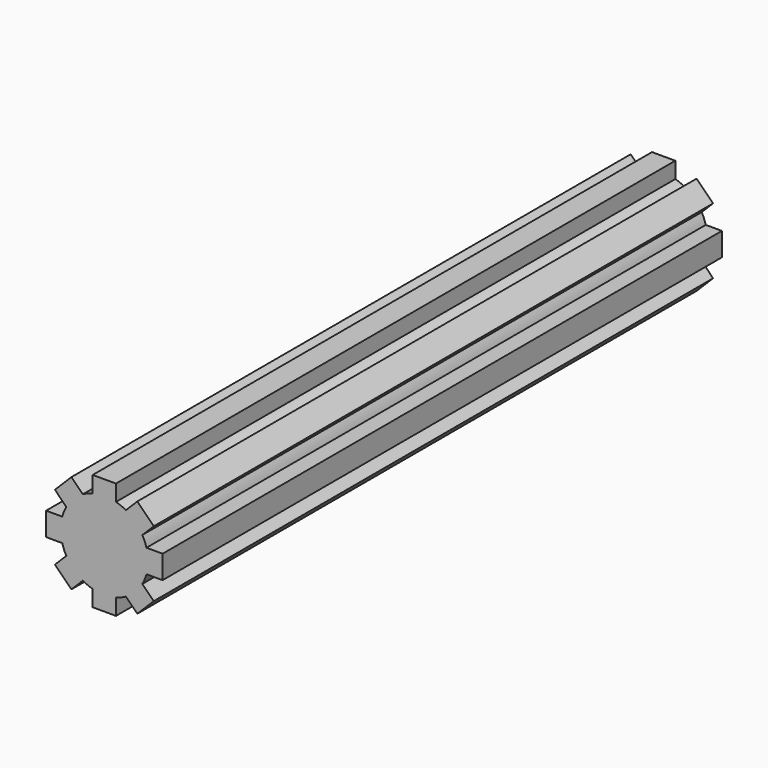
from build123d import *

# Parameters (mm, degrees)
F1_DEPTH = 152.4


with BuildPart() as f1:
    # F0 (on Front) → F1 (new body)
    with BuildSketch(Plane.XZ):
        with BuildLine():
            Line((2.54, 12.7), (-2.54, 12.7))
            Line((-2.54, 12.7), (-2.54, 9.180089))
            ThreePointArc((-2.54, 9.180089), (-3.64506, 8.799953), (-4.695252, 8.287354))
            Line((-4.695252, 8.287354), (-7.184205, 10.776307))
            Line((-7.184205, 10.776307), (-8.980256, 8.980256))
            Line((-8.980256, 8.980256), (-10.776307, 7.184205))
            Line((-10.776307, 7.184205), (-8.287354, 4.695252))
            ThreePointArc((-8.287354, 4.695252), (-8.799953, 3.64506), (-9.180089, 2.54))
            Line((-9.180089, 2.54), (-12.7, 2.54))
            Line((-12.7, 2.54), (-12.7, -2.54))
            Line((-12.7, -2.54), (-9.180089, -2.54))
            ThreePointArc((-9.180089, -2.54), (-8.799953, -3.64506), (-8.287354, -4.695252))
            Line((-8.287354, -4.695252), (-10.776307, -7.184205))
            Line((-10.776307, -7.184205), (-8.980256, -8.980256))
            Line((-8.980256, -8.980256), (-7.184205, -10.776307))
            Line((-7.184205, -10.776307), (-4.695252, -8.287354))
            ThreePointArc((-4.695252, -8.287354), (-3.64506, -8.799953), (-2.54, -9.180089))
            Line((-2.54, -9.180089), (-2.54, -12.7))
            Line((-2.54, -12.7), (2.54, -12.7))
            Line((2.54, -12.7), (2.54, -9.180089))
            ThreePointArc((2.54, -9.180089), (3.64506, -8.799953), (4.695252, -8.287354))
            Line((4.695252, -8.287354), (7.184205, -10.776307))
            Line((7.184205, -10.776307), (8.980256, -8.980256))
            Line((8.980256, -8.980256), (10.776307, -7.184205))
            Line((10.776307, -7.184205), (8.287354, -4.695252))
            ThreePointArc((8.287354, -4.695252), (8.799953, -3.64506), (9.180089, -2.54))
            Line((9.180089, -2.54), (12.7, -2.54))
            Line((12.7, -2.54), (12.7, 2.54))
            Line((12.7, 2.54), (9.180089, 2.54))
            ThreePointArc((9.180089, 2.54), (8.799953, 3.64506), (8.287354, 4.695252))
            Line((8.287354, 4.695252), (10.776307, 7.184205))
            Line((10.776307, 7.184205), (8.980256, 8.980256))
            Line((8.980256, 8.980256), (7.184205, 10.776307))
            Line((7.184205, 10.776307), (4.695252, 8.287354))
            ThreePointArc((4.695252, 8.287354), (3.64506, 8.799953), (2.54, 9.180089))
            Line((2.54, 9.180089), (2.54, 12.7))
        make_face()
    extrude(amount=F1_DEPTH)


solid = f1.part
